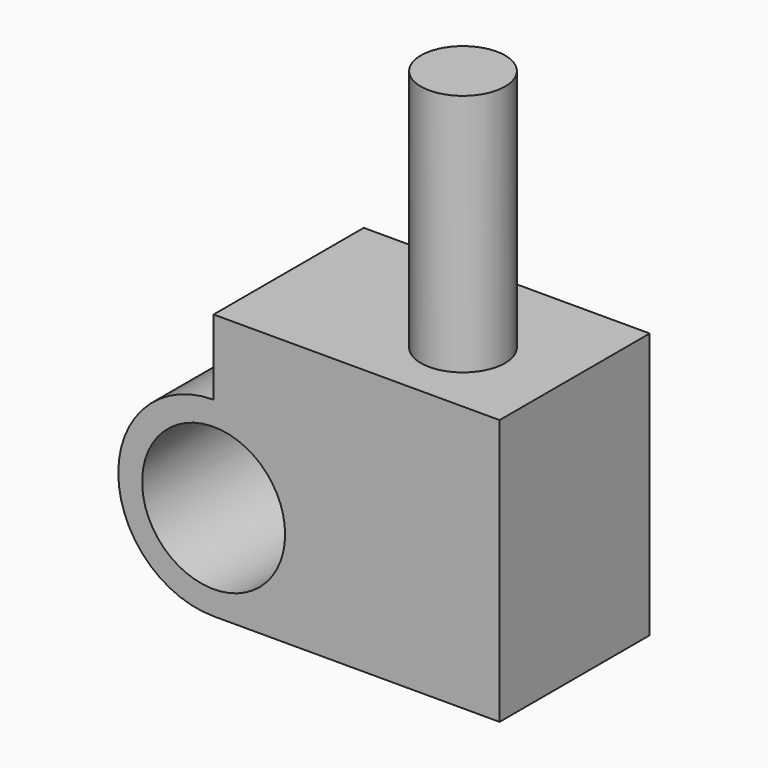
from build123d import *

# Parameters (mm, degrees)
F1_DEPTH = 50
F2_DEPTH = 20
F3_R     = 11.2180769553
F4_DEPTH = 64.881876111


with BuildPart() as f1:
    # F0 (on Front) → F1 (new body)
    with BuildSketch(Plane.XZ):
        with BuildLine():
            Line((-38.1, -25.4), (38.1, -25.4))
            Line((38.1, -25.4), (38.1, 25.4))
            Line((38.1, 25.4), (-38.1, 25.4))
            ThreePointArc((-38.1, 25.4), (-20.1394877579, 17.9605122421), (-12.7, 0))
            ThreePointArc((-12.7, 0), (-20.1394877579, -17.9605122421), (-38.1, -25.4))
        make_face()
        with BuildLine():
            ThreePointArc((-38.1, 25.4), (-63.5, 0), (-38.1, -25.4))
            Line((-38.1, -25.4), (-38.1, -19.05))
            ThreePointArc((-38.1, -19.05), (-57.15, 0), (-38.1, 19.05))
            Line((-38.1, 19.05), (-38.1, 25.4))
        make_face()
        with BuildLine():
            Line((-38.1, -19.05), (-38.1, -25.4))
            ThreePointArc((-38.1, -25.4), (-20.1394877579, -17.9605122421), (-12.7, 0))
            ThreePointArc((-12.7, 0), (-20.1394877579, 17.9605122421), (-38.1, 25.4))
            Line((-38.1, 25.4), (-38.1, 19.05))
            ThreePointArc((-38.1, 19.05), (-24.6296158184, 13.4703841816), (-19.05, 0))
            ThreePointArc((-19.05, 0), (-24.6296158184, -13.4703841816), (-38.1, -19.05))
        make_face()
    extrude(amount=F1_DEPTH)

    # F2 (add): a face of the model
    f2_faces = [f1.faces().sort_by_distance(p)[0] for p in [
        (0, -25, 25.4),
    ]]
    extrude(f2_faces, amount=F2_DEPTH)

    # F3 (on face) → F4 (join)
    with BuildSketch(Plane.XY.offset(45.4)):
        with Locations((11.7288976908, -29.2320102453)):
            Circle(F3_R)
    extrude(amount=F4_DEPTH)


solid = f1.part
